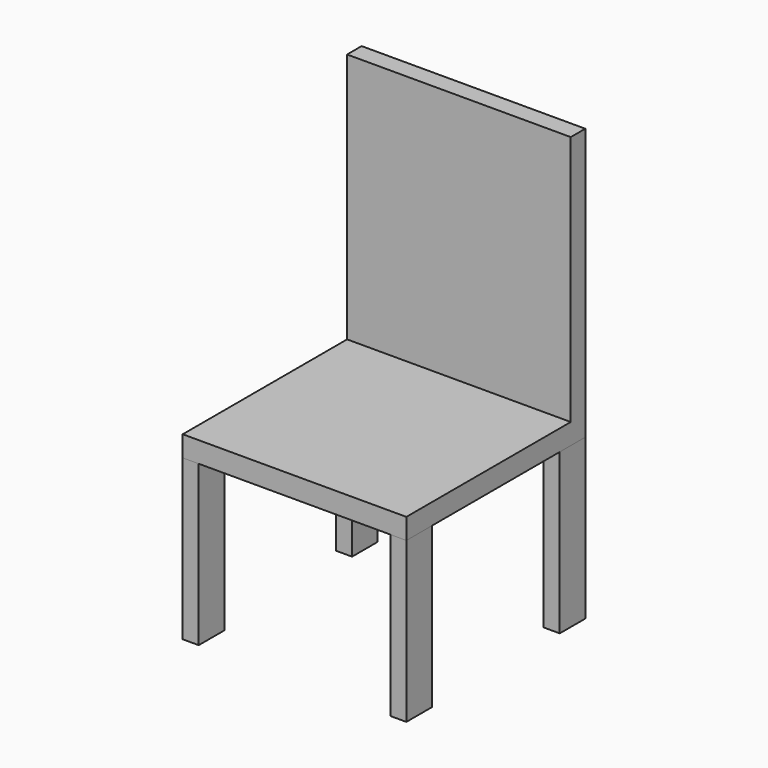
from build123d import *

# Parameters (mm, degrees)
F0_W     = 25.4
F0_H     = 50.8
F1_DEPTH = 254
F2_W     = 355.6
F2_H     = 177.8
F2_W_2   = 25.4
F2_H_2   = 50.8
F5_DEPTH = 33.02
F8_W     = 355.6
F8_H     = 28.9133196831
F9_DEPTH = 398.78


with BuildPart() as f1:
    # F0 (on Top) → F1 (new body)
    with BuildSketch(Plane.XY):
        with Locations((12.7, 25.4)):
            Rectangle(F0_W, F0_H)
    extrude(amount=F1_DEPTH)


with BuildPart() as f4_1:
    # F4: instance of F1
    add(f1.part.mirror(Plane.YZ.offset(177.8)))


with BuildPart() as f5:
    # F2 (on face) → F5 (new body)
    with BuildSketch(Plane.XY.offset(254)):
        with Locations((177.8, 266.7)):
            Rectangle(F2_W, F2_H)
        Polygon((25.4, 50.8), (25.4, 0), (355.6, 0), (355.6, 177.8), (0, 177.8), (0, 50.8), align=None)
        with Locations((12.7, 25.4)):
            Rectangle(F2_W_2, F2_H_2)
    extrude(amount=F5_DEPTH)

    # F8 (on face) → F9 (join)
    with BuildSketch(Plane.XY.offset(287.02)):
        with Locations((177.8, 341.1433401585)):
            Rectangle(F8_W, F8_H)
    extrude(amount=F9_DEPTH)


with BuildPart() as f7_1:
    # F7: instance of F1
    add(f1.part.mirror(Plane.XZ.offset(-177.8)))


with BuildPart() as f7_2:
    # F7: instance of F4_1
    add(f4_1.part.mirror(Plane.XZ.offset(-177.8)))


solid = Compound([f1.part, f4_1.part, f5.part, f7_1.part, f7_2.part])
